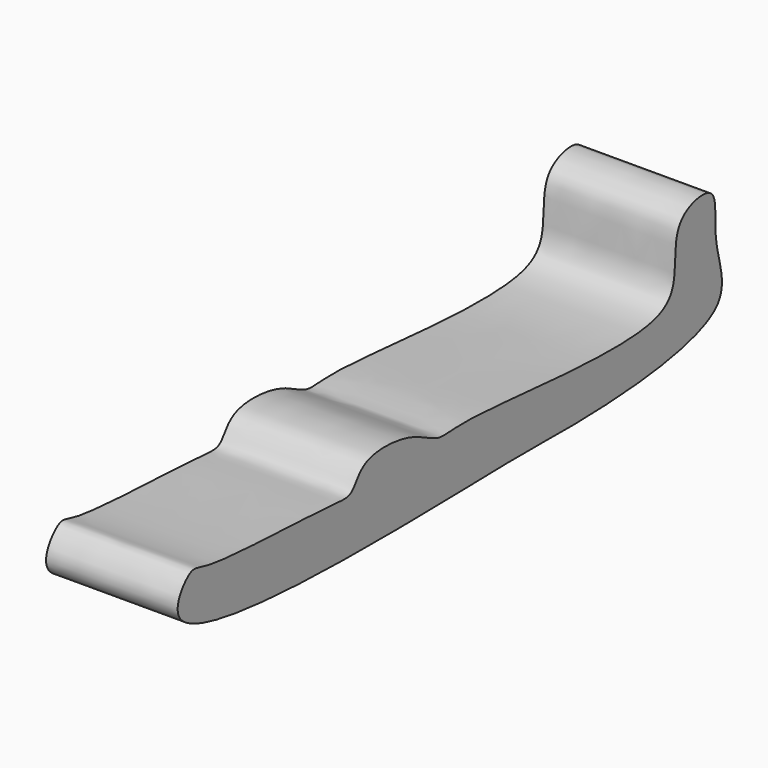
from build123d import *

# Parameters (mm, degrees)
F1_DEPTH = 8


with BuildPart() as f1:
    # F0 (on Right) → F1 (new body)
    with BuildSketch(Plane.YZ):
        with BuildLine():
            add(Edge.make_bspline(
                [(0, 0), (2.7781701163, 0.044475898), (3.893317027, -0.1415050944), (18.0602791441, 0.468294504), (15.4369573696, 5.3851174597), (16.2754556986, 8.7470821659), (12.5958129529, 8.0228258998), (12.9523224707, 4.8626624161), (11.7478437463, 1.8440530241), (-3.1489920919, 3.9149170317), (-5.1925464737, 3.1979544021), (-7.1527751352, 4.631763759), (-11.0027011134, 4.864122504), (-11.6922029524, 2.9435323915), (-13.5134277167, 3.2985224375), (-22.9321502669, 3.4629994384), (-24.0140116165, 4.3475658278), (-27.9785782753, -0.9597942128), (-6.0185016263, -0.0963505665), (0, 0)],
                knots=[0, 0, 0, 0, 0.0646385306, 0.1569520139, 0.2103628067, 0.2559424226, 0.2978835908, 0.3443769167, 0.3878919479, 0.4939745338, 0.5358790984, 0.5773486572, 0.6298916616, 0.6637412183, 0.7005043112, 0.7864796106, 0.8180580052, 0.8599700216, 1, 1, 1, 1], degree=3))
        make_face()
    extrude(amount=F1_DEPTH)


solid = f1.part
